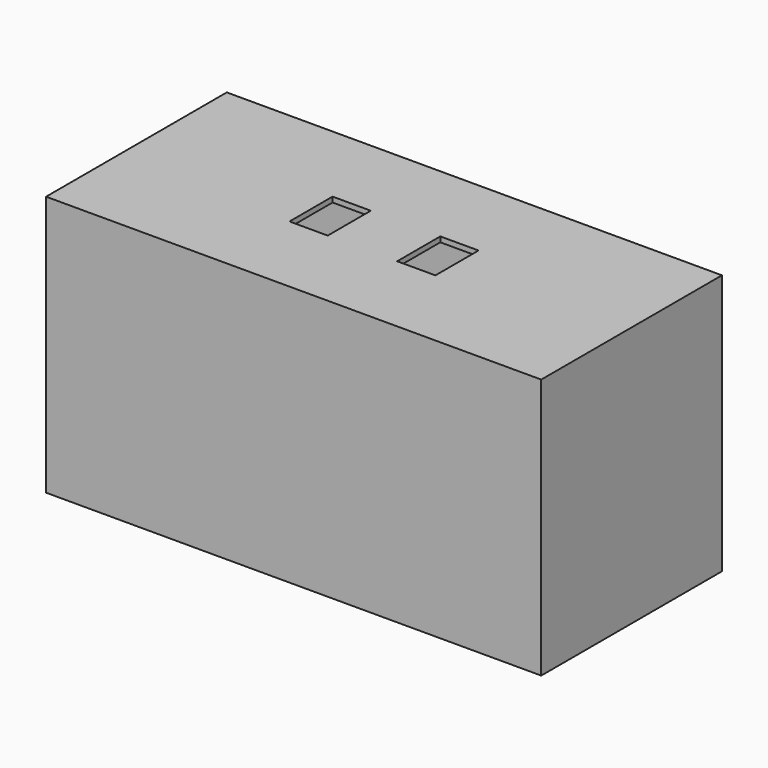
from build123d import *

# Parameters (mm, degrees)
SKETCH_W     = 285
SKETCH_H     = 130
PAD_DEPTH    = 75
THICKNESS_T  = -3
SKETCH001_W  = 22
SKETCH001_H  = 31
POCKET_DEPTH = 5


with BuildPart() as part:
    # Sketch → Pad (new body, symmetric)
    with BuildSketch(Plane.XY):
        Rectangle(SKETCH_W, SKETCH_H)
    extrude(amount=PAD_DEPTH, both=True)

    # Thickness
    thickness_openings = [part.faces().sort_by_distance(p)[0] for p in [
        (0, 0, -75),
    ]]
    offset(amount=THICKNESS_T, openings=thickness_openings)

    # Sketch001 (on Face5 of Thickness) → Pocket (cut)
    with BuildSketch(Plane.XY.offset(75)):
        with Locations((31, 0)):
            Rectangle(SKETCH001_W, SKETCH001_H)
        with Locations((-31, 0)):
            Rectangle(SKETCH001_W, SKETCH001_H)
    extrude(amount=-POCKET_DEPTH, mode=Mode.SUBTRACT)


solid = part.part
